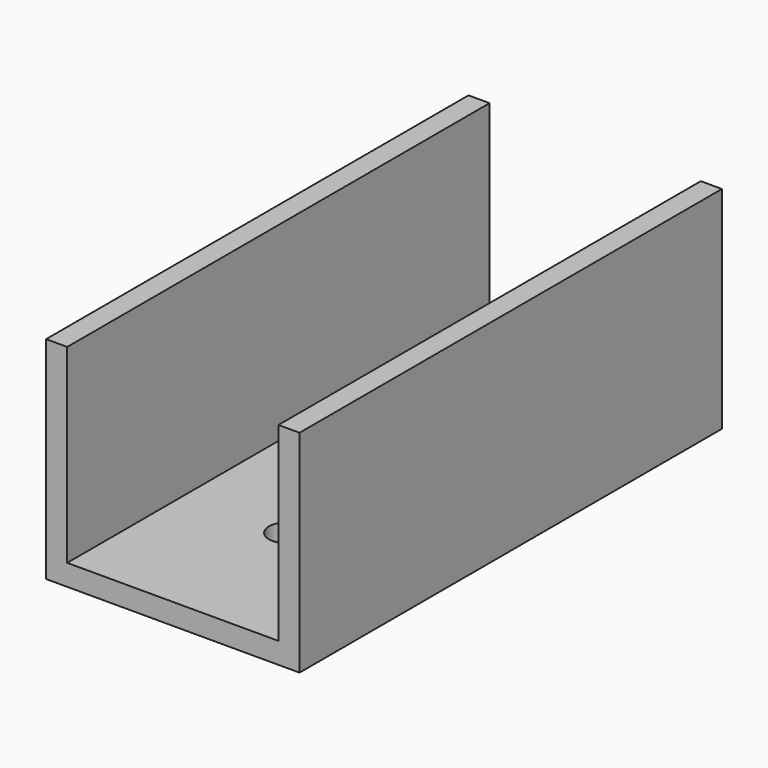
from build123d import *

# Parameters (mm, degrees)
F0_W     = 36
F0_H     = 75
F1_DEPTH = 30
F2_T     = -3
F4_D     = 5


with BuildPart() as f1:
    # F0 (on Top) → F1 (new body)
    with BuildSketch(Plane.XY):
        with Locations((18, 37.5)):
            Rectangle(F0_W, F0_H)
    extrude(amount=F1_DEPTH)

    # F2
    f2_openings = [f1.faces().sort_by_distance(p)[0] for p in [
        (18, 0, 15),
        (18, 37.5, 30),
        (18, 75, 15),
    ]]
    offset(amount=F2_T, openings=f2_openings)

    # F4 (through all)
    with Locations(Plane(origin=(0, 0, 0), x_dir=(1, 0, 0), z_dir=(0, 0, -1))):
        with Locations((17.4995128149, -20.8268326492), (16.5131200809, -56.3370103376)):
            Hole(F4_D / 2)


solid = f1.part
